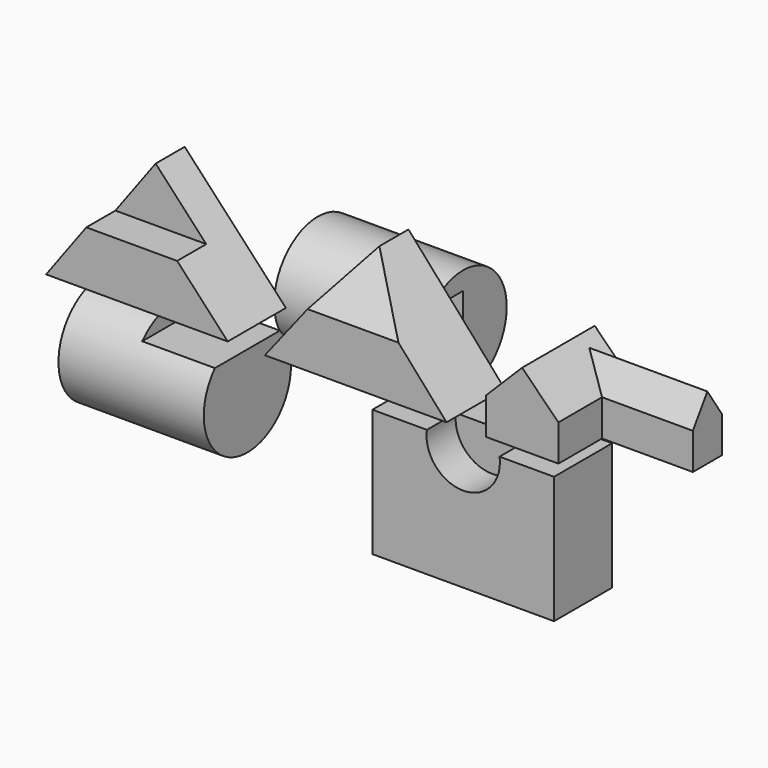
from build123d import *

# Parameters (mm, degrees)
F1_DEPTH  = 101.6
F3_DEPTH  = 50.8
F5_DEPTH  = 50.8
F7_DEPTH  = 101.6
F10_DEPTH = 279.4
F12_DEPTH = 127
F14_W     = 50.8
F14_H     = 50.8
F16_R     = 76.2
F17_DEPTH = 203.2
F19_DEPTH = 101.6
F20_R     = 76.2
F21_DEPTH = 203.2
F23_DEPTH = 101.6
F24_W     = 254
F24_H     = 177.8
F25_DEPTH = 101.6
F27_DEPTH = 50.8


with BuildPart() as f1:
    # F0 (on Front) → F1 (new body)
    with BuildSketch(Plane.XZ):
        Polygon((112.5727180381, 152.4), (0, 0), (254, 0), align=None)
    extrude(amount=-F1_DEPTH)

    # F2 (on face) → F3 (join)
    with BuildSketch(Plane.XZ):
        Polygon((183.286359019, 76.2), (112.5727180381, 152.4), (56.286359019, 76.2), align=None)
    extrude(amount=-F3_DEPTH)

    # F4 (on face) → F5 (cut)
    with BuildSketch(Plane.XZ):
        Polygon((183.286359019, 76.2), (112.5727180381, 152.4), (56.286359019, 76.2), align=None)
    extrude(amount=-F5_DEPTH, mode=Mode.SUBTRACT)


with BuildPart() as f7:
    # F6 (on Front) → F7 (new body)
    with BuildSketch(Plane.XZ):
        Polygon((425.4340355222, 152.4), (305.9679370656, 0), (559.9679370656, 0), align=None)
    extrude(amount=-F7_DEPTH)

    # F9 (on offset) → F10 (cut)
    with BuildSketch(Plane.YZ.offset(303.276)):
        Polygon((0, 152.4), (0, 76.2), (50.8, 152.4), align=None)
    extrude(amount=F10_DEPTH, mode=Mode.SUBTRACT)


with BuildPart() as f12:
    # F11 (on Front) → F12 (new body)
    with BuildSketch(Plane.XZ):
        Polygon((614.8042158089, 50.8), (614.8042158089, 0), (716.4042158089, 0), (716.4042158089, 50.8), (665.6042158089, 101.6), align=None)
    extrude(amount=-F12_DEPTH)

    # F14 (on offset) → F15 (join, up to the next surface of F12)
    with BuildSketch(Plane.YZ.offset(843.4042158089)):
        with Locations((101.6, 25.4)):
            Rectangle(F14_W, F14_H)
        Polygon((76.2, 50.8), (127, 50.8), (101.6, 88.9), align=None)
    extrude(until=Until.NEXT, dir=(-1, 0, 0))


with BuildPart() as f17:
    # F16 (on Right) → F17 (new body)
    with BuildSketch(Plane.YZ):
        with Locations((97.8534966707, -116.7765036225)):
            Circle(F16_R)
    extrude(amount=F17_DEPTH)

    # F18 (on face) → F19 (cut)
    with BuildSketch(Plane.YZ.offset(203.2)):
        with BuildLine():
            ThreePointArc((154.6496232992, -65.9765036225), (97.8534966707, -40.5765036225), (41.0573700422, -65.9765036225))
            Line((41.0573700422, -65.9765036225), (154.6496232992, -65.9765036225))
        make_face()
    extrude(amount=-F19_DEPTH, mode=Mode.SUBTRACT)


with BuildPart() as f21:
    # F20 (on offset) → F21 (new body)
    with BuildSketch(Plane.YZ.offset(303.276)):
        with Locations((349.7775793076, -114.6402806044)):
            Circle(F20_R)
    extrude(amount=-F21_DEPTH)

    # F22 (on face) → F23 (cut)
    with BuildSketch(Plane.YZ.offset(303.276)):
        with BuildLine():
            Line((349.7775793076, -63.8402806044), (292.9814526791, -63.8402806044))
            ThreePointArc((292.9814526791, -63.8402806044), (273.5775793076, -114.6402806044), (292.9814526791, -165.4402806044))
            Line((292.9814526791, -165.4402806044), (349.7775793076, -165.4402806044))
            Line((349.7775793076, -165.4402806044), (349.7775793076, -63.8402806044))
        make_face()
    extrude(amount=-F23_DEPTH, mode=Mode.SUBTRACT)


with BuildPart() as f25:
    # F24 (on Front) → F25 (new body)
    with BuildSketch(Plane.XZ):
        with Locations((583.2604467869, -107.0706863395)):
            Rectangle(F24_W, F24_H)
    extrude(amount=-F25_DEPTH)

    # F26 (on face) → F27 (cut)
    with BuildSketch(Plane.XZ):
        with BuildLine():
            ThreePointArc((532.4604467869, -18.1706863395), (579.7200140613, -76.4011061392), (634.5492344713, -25.2346612925))
            ThreePointArc((634.5492344713, -25.2346612925), (634.4268916336, -21.6942285669), (634.0604467869, -18.1706863395))
            Line((634.0604467869, -18.1706863395), (532.4604467869, -18.1706863395))
        make_face()
    extrude(amount=-F27_DEPTH, mode=Mode.SUBTRACT)


solid = Compound([f1.part, f7.part, f12.part, f17.part, f21.part, f25.part])
